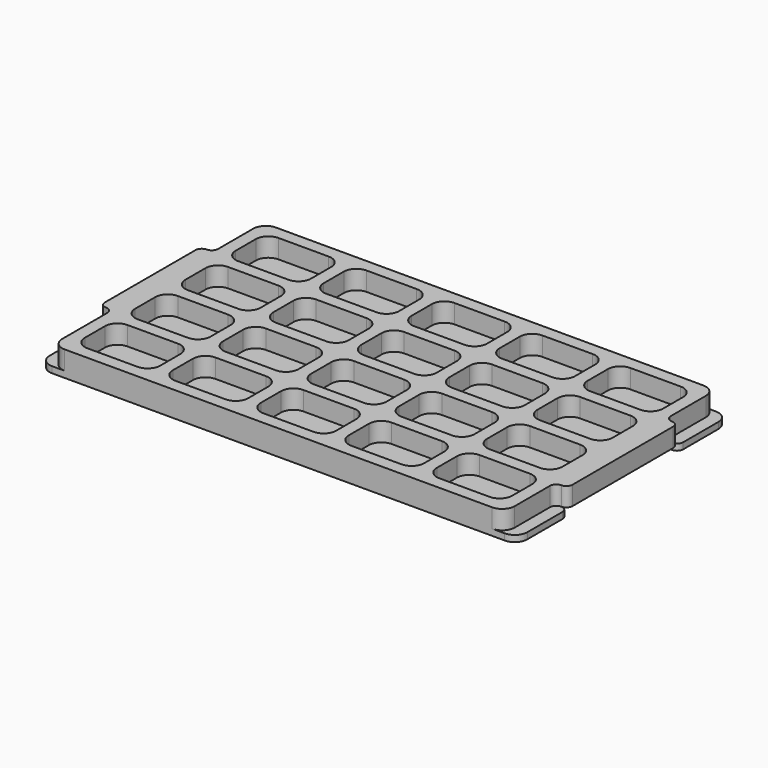
from build123d import *

# Parameters (mm, degrees)
F0_W     = 76.2
F0_H     = 50.8
F1_DEPTH = 19.05
F2_R     = 12.7
F4_DEPTH = 6.35
F5_R     = 12.7


with BuildPart() as f1:
    # F0 (on Top) → F1 (new body)
    with BuildSketch(Plane.XY):
        Polygon((444.5, 254), (-12.7, 254), (-12.7, 196.85), (-12.7, 57.15), (-12.7, -12.7), (444.5, -12.7), (444.5, 44.45), (444.5, 196.85), align=None)
        with Locations((38.1, 25.4)):
            Rectangle(F0_W, F0_H, mode=Mode.SUBTRACT)
        with Locations((127, 25.4)):
            Rectangle(F0_W, F0_H, mode=Mode.SUBTRACT)
        with Locations((38.1, 88.9)):
            Rectangle(F0_W, F0_H, mode=Mode.SUBTRACT)
        with Locations((127, 88.9)):
            Rectangle(F0_W, F0_H, mode=Mode.SUBTRACT)
        with Locations((215.9, 25.4)):
            Rectangle(F0_W, F0_H, mode=Mode.SUBTRACT)
        with Locations((304.8, 25.4)):
            Rectangle(F0_W, F0_H, mode=Mode.SUBTRACT)
        with Locations((393.7, 25.4)):
            Rectangle(F0_W, F0_H, mode=Mode.SUBTRACT)
        with Locations((215.9, 88.9)):
            Rectangle(F0_W, F0_H, mode=Mode.SUBTRACT)
        with Locations((304.8, 88.9)):
            Rectangle(F0_W, F0_H, mode=Mode.SUBTRACT)
        with Locations((393.7, 88.9)):
            Rectangle(F0_W, F0_H, mode=Mode.SUBTRACT)
        with Locations((38.1, 152.4)):
            Rectangle(F0_W, F0_H, mode=Mode.SUBTRACT)
        with Locations((127, 152.4)):
            Rectangle(F0_W, F0_H, mode=Mode.SUBTRACT)
        with Locations((38.1, 215.9)):
            Rectangle(F0_W, F0_H, mode=Mode.SUBTRACT)
        with Locations((127, 215.9)):
            Rectangle(F0_W, F0_H, mode=Mode.SUBTRACT)
        with Locations((215.9, 152.4)):
            Rectangle(F0_W, F0_H, mode=Mode.SUBTRACT)
        with Locations((304.8, 152.4)):
            Rectangle(F0_W, F0_H, mode=Mode.SUBTRACT)
        with Locations((393.7, 152.4)):
            Rectangle(F0_W, F0_H, mode=Mode.SUBTRACT)
        with Locations((215.9, 215.9)):
            Rectangle(F0_W, F0_H, mode=Mode.SUBTRACT)
        with Locations((304.8, 215.9)):
            Rectangle(F0_W, F0_H, mode=Mode.SUBTRACT)
        with Locations((393.7, 215.9)):
            Rectangle(F0_W, F0_H, mode=Mode.SUBTRACT)
        with BuildLine():
            Line((-12.7, 57.15), (-12.7, 196.85))
            ThreePointArc((-12.7, 196.85), (-14.559872, 192.359872), (-19.05, 190.5))
            ThreePointArc((-19.05, 190.5), (-23.540128, 188.640128), (-25.4, 184.15))
            Line((-25.4, 184.15), (-25.4, 69.85))
            ThreePointArc((-25.4, 69.85), (-23.540128, 65.359872), (-19.05, 63.5))
            ThreePointArc((-19.05, 63.5), (-14.559872, 61.640128), (-12.7, 57.15))
        make_face()
        with BuildLine():
            ThreePointArc((450.85, 190.5), (446.359872, 192.359872), (444.5, 196.85))
            Line((444.5, 196.85), (444.5, 44.45))
            ThreePointArc((444.5, 44.45), (446.359872, 48.940128), (450.85, 50.8))
            ThreePointArc((450.85, 50.8), (455.340128, 52.659872), (457.2, 57.15))
            Line((457.2, 57.15), (457.2, 184.15))
            ThreePointArc((457.2, 184.15), (455.340128, 188.640128), (450.85, 190.5))
        make_face()
    extrude(amount=F1_DEPTH)

    # F2
    f2_edges = [f1.edges().sort_by_distance(p)[0] for p in [
        (431.8, 190.5, 9.525),
        (431.8, 127, 9.525),
        (431.8, 63.5, 9.525),
        (431.8, 0, 9.525),
        (-12.7, 254, 9.525),
        (76.2, 190.5, 9.525),
        (165.1, 190.5, 9.525),
        (254, 190.5, 9.525),
        (342.9, 63.5, 9.525),
        (342.9, 0, 9.525),
        (342.9, 127, 9.525),
        (342.9, 190.5, 9.525),
        (254, 127, 9.525),
        (254, 63.5, 9.525),
        (254, 0, 9.525),
        (165.1, 0, 9.525),
        (165.1, 63.5, 9.525),
        (165.1, 127, 9.525),
        (76.2, 127, 9.525),
        (76.2, 63.5, 9.525),
        (76.2, 0, 9.525),
        (355.6, 0, 9.525),
        (444.5, -12.7, 9.525),
        (444.5, 254, 9.525),
        (355.6, 127, 9.525),
        (355.6, 63.5, 9.525),
        (266.7, 0, 9.525),
        (266.7, 63.5, 9.525),
        (355.6, 190.5, 9.525),
        (177.8, 0, 9.525),
        (177.8, 63.5, 9.525),
        (177.8, 127, 9.525),
        (266.7, 127, 9.525),
        (266.7, 190.5, 9.525),
        (177.8, 190.5, 9.525),
        (88.9, 190.5, 9.525),
        (88.9, 127, 9.525),
        (88.9, 63.5, 9.525),
        (88.9, 0, 9.525),
        (0, 0, 9.525),
        (0, 63.5, 9.525),
        (0, 127, 9.525),
        (0, 190.5, 9.525),
        (0, 241.3, 9.525),
        (0, 177.8, 9.525),
        (0, 114.3, 9.525),
        (0, 50.8, 9.525),
        (88.9, 50.8, 9.525),
        (88.9, 114.3, 9.525),
        (88.9, 177.8, 9.525),
        (88.9, 241.3, 9.525),
        (177.8, 241.3, 9.525),
        (177.8, 177.8, 9.525),
        (177.8, 114.3, 9.525),
        (177.8, 50.8, 9.525),
        (266.7, 241.3, 9.525),
        (266.7, 177.8, 9.525),
        (266.7, 114.3, 9.525),
        (266.7, 50.8, 9.525),
        (355.6, 50.8, 9.525),
        (355.6, 114.3, 9.525),
        (355.6, 177.8, 9.525),
        (355.6, 241.3, 9.525),
        (431.8, 241.3, 9.525),
        (342.9, 241.3, 9.525),
        (254, 241.3, 9.525),
        (165.1, 241.3, 9.525),
        (76.2, 241.3, 9.525),
        (-12.7, -12.7, 9.525),
        (76.2, 177.8, 9.525),
        (76.2, 114.3, 9.525),
        (76.2, 50.8, 9.525),
        (165.1, 50.8, 9.525),
        (165.1, 114.3, 9.525),
        (165.1, 177.8, 9.525),
        (342.9, 177.8, 9.525),
        (254, 177.8, 9.525),
        (254, 114.3, 9.525),
        (254, 50.8, 9.525),
        (342.9, 114.3, 9.525),
        (342.9, 50.8, 9.525),
        (431.8, 50.8, 9.525),
        (431.8, 114.3, 9.525),
        (431.8, 177.8, 9.525),
    ]]
    fillet(f2_edges, radius=F2_R)

    # F3 (on Top) → F4 (join)
    with BuildSketch(Plane.XY):
        with BuildLine():
            Line((-25.4, 57.15), (-25.4, -12.7))
            Line((-25.4, -12.7), (457.2, -12.7))
            Line((457.2, -12.7), (457.2, 44.45))
            ThreePointArc((457.2, 44.45), (455.340128, 48.940128), (450.85, 50.8))
            ThreePointArc((450.85, 50.8), (446.359872, 52.659872), (444.5, 57.15))
            Line((444.5, 57.15), (444.5, 184.15))
            ThreePointArc((444.5, 184.15), (446.359872, 188.640128), (450.85, 190.5))
            ThreePointArc((450.85, 190.5), (455.340128, 192.359872), (457.2, 196.85))
            Line((457.2, 196.85), (457.2, 254))
            Line((457.2, 254), (-25.4, 254))
            Line((-25.4, 254), (-25.4, 196.85))
            ThreePointArc((-25.4, 196.85), (-23.540128, 192.359872), (-19.05, 190.5))
            ThreePointArc((-19.05, 190.5), (-14.559872, 188.640128), (-12.7, 184.15))
            Line((-12.7, 184.15), (-12.7, 69.85))
            ThreePointArc((-12.7, 69.85), (-14.559872, 65.359872), (-19.05, 63.5))
            ThreePointArc((-19.05, 63.5), (-23.540128, 61.640128), (-25.4, 57.15))
        make_face()
    extrude(amount=-F4_DEPTH)

    # F5
    f5_edges = [f1.edges().sort_by_distance(p)[0] for p in [
        (-25.4, 254, -3.175),
        (-25.4, -12.7, -3.175),
        (457.2, -12.7, -3.175),
        (457.2, 254, -3.175),
    ]]
    fillet(f5_edges, radius=F5_R)


solid = f1.part
